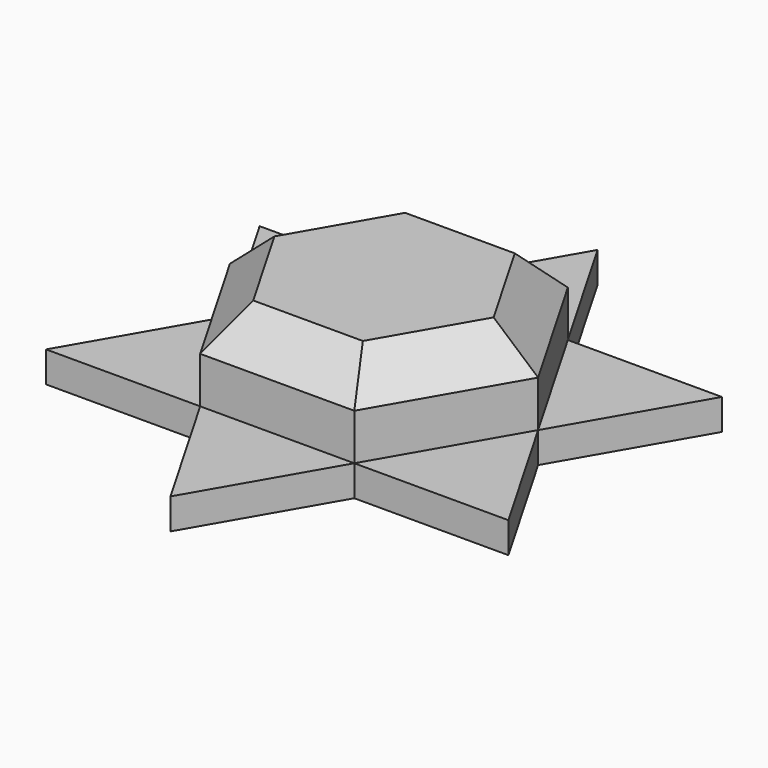
from build123d import *

# Parameters (mm, degrees)
F1_DEPTH = 19.05
F2_DEPTH = 5.08
F3_SIZE  = 6.35


with BuildPart() as f1:
    # F0 (on Top) → F1 (new body)
    with BuildSketch(Plane.XY):
        Polygon((12.7, 21.9970452561), (-12.7, 21.9970452561), (-25.4, 0), (-12.7, -21.9970452561), (12.7, -21.9970452561), (25.4, 0), align=None)
    extrude(amount=F1_DEPTH)

    # F0 (on Top) → F2 (join)
    with BuildSketch(Plane.XY):
        Polygon((-12.7, 21.9970452561), (-38.1, 21.9970452561), (-25.4, 0), align=None)
        Polygon((0, 43.9940905122), (-12.7, 21.9970452561), (12.7, 21.9970452561), align=None)
        Polygon((12.7, 21.9970452561), (-12.7, 21.9970452561), (-25.4, 0), (-12.7, -21.9970452561), (12.7, -21.9970452561), (25.4, 0), align=None)
        Polygon((-12.7, -21.9970452561), (-25.4, 0), (-38.1, -21.9970452561), align=None)
        Polygon((38.1, 21.9970452561), (12.7, 21.9970452561), (25.4, 0), align=None)
        Polygon((12.7, -21.9970452561), (-12.7, -21.9970452561), (0, -43.9940905122), align=None)
        Polygon((38.1, -21.9970452561), (25.4, 0), (12.7, -21.9970452561), align=None)
    extrude(amount=F2_DEPTH)

    # F3
    f3_edges = [f1.edges().sort_by_distance(p)[0] for p in [
        (0, -21.997045, 19.05),
        (19.05, -10.998523, 19.05),
        (19.05, 10.998523, 19.05),
        (0, 21.997045, 19.05),
        (-19.05, 10.998523, 19.05),
        (-19.05, -10.998523, 19.05),
    ]]
    chamfer(f3_edges, length=F3_SIZE)


solid = f1.part
